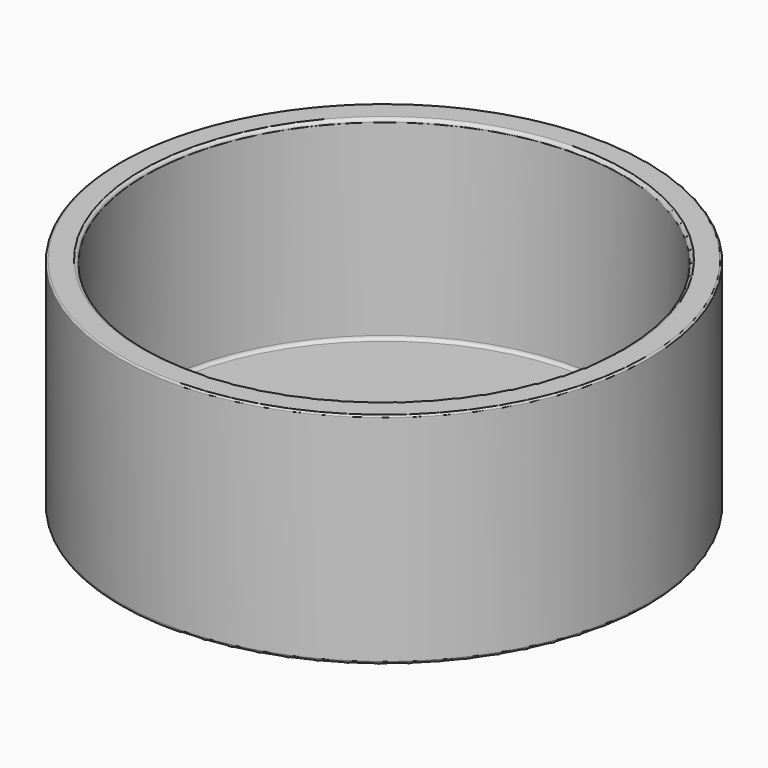
from build123d import *

# Parameters (mm, degrees)
F0_R     = 31.25
F1_DEPTH = 3
F2_R     = 31.25
F2_R_2   = 28.25
F3_DEPTH = 23
F4_R     = 0.4
F5_R     = 0.2


with BuildPart() as f1:
    # F0 (on Top) → F1 (new body)
    with BuildSketch(Plane.XY):
        Circle(F0_R)
    extrude(amount=F1_DEPTH)

    # F2 (on face) → F3 (join)
    with BuildSketch(Plane.XY.offset(3)):
        Circle(F2_R)
        Circle(F2_R_2, mode=Mode.SUBTRACT)
    extrude(amount=F3_DEPTH)

    # F4
    f4_edges = [f1.edges().sort_by_distance(p)[0] for p in [
        (-28.25, 0, 26),
        (-28.25, 0, 3),
        (-31.25, 0, 0),
    ]]
    fillet(f4_edges, radius=F4_R)

    # F5
    f5_edges = [f1.edges().sort_by_distance(p)[0] for p in [
        (-31.25, 0, 26),
    ]]
    fillet(f5_edges, radius=F5_R)


solid = f1.part
